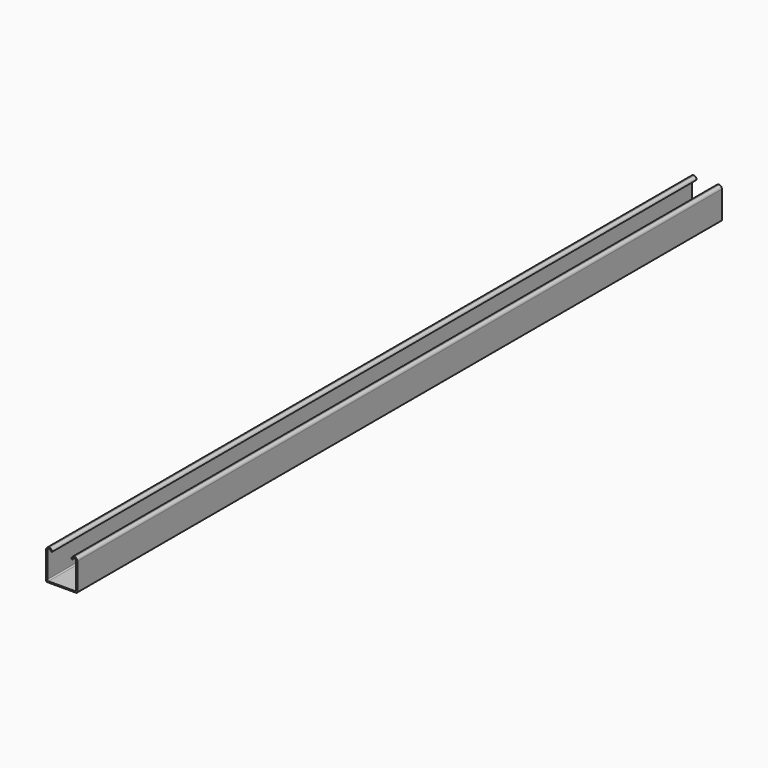
from build123d import *

# Parameters (mm, degrees)
F0_W     = 1.5875
F0_H     = 1.5875
F0_W_2   = 38.1
F1_DEPTH = 1066.8
F2_R     = 1.5875


with BuildPart() as f1:
    # F0 (on Front) → F1 (new body)
    with BuildSketch(Plane.XZ):
        with Locations((19.84375, -19.84375)):
            Rectangle(F0_W, F0_H)
        with Locations((0, -19.84375)):
            Rectangle(F0_W_2, F0_H)
        with BuildLine():
            Line((19.05, -19.05), (20.6375, -19.05))
            Line((20.6375, -19.05), (20.6375, 16.728964))
            ThreePointArc((20.6375, 16.728964), (19.70884, 19.280205), (17.357459, 20.6375))
            Line((17.357459, 20.6375), (15.980041, 20.6375))
            ThreePointArc((15.980041, 20.6375), (13.62866, 19.280205), (12.7, 16.728964))
            Line((12.7, 16.728964), (14.2875, 16.728964))
            ThreePointArc((14.2875, 16.728964), (16.66875, 19.110214), (19.05, 16.728964))
            Line((19.05, 16.728964), (19.05, -19.05))
        make_face()
        with Locations((-19.84375, -19.84375)):
            Rectangle(F0_W, F0_H)
        with BuildLine():
            Line((-20.6375, -19.05), (-19.05, -19.05))
            Line((-19.05, -19.05), (-19.05, 16.728964))
            ThreePointArc((-19.05, 16.728964), (-16.66875, 19.110214), (-14.2875, 16.728964))
            Line((-14.2875, 16.728964), (-12.7, 16.728964))
            ThreePointArc((-12.7, 16.728964), (-13.62866, 19.280205), (-15.980041, 20.6375))
            Line((-15.980041, 20.6375), (-17.357459, 20.6375))
            ThreePointArc((-17.357459, 20.6375), (-19.70884, 19.280205), (-20.6375, 16.728964))
            Line((-20.6375, 16.728964), (-20.6375, -19.05))
        make_face()
        with BuildLine():
            Line((15.980041, 20.6375), (17.357459, 20.6375))
            ThreePointArc((17.357459, 20.6375), (16.66875, 20.697714), (15.980041, 20.6375))
        make_face()
        with BuildLine():
            ThreePointArc((-15.980041, 20.6375), (-16.66875, 20.697714), (-17.357459, 20.6375))
            Line((-17.357459, 20.6375), (-15.980041, 20.6375))
        make_face()
    extrude(amount=F1_DEPTH)

    # F2
    f2_edges = [f1.edges().sort_by_distance(p)[0] for p in [
        (-19.05, -533.4, -19.05),
        (19.05, -533.4, -19.05),
        (20.6375, -533.4, -20.6375),
        (-20.6375, -533.4, -20.6375),
    ]]
    fillet(f2_edges, radius=F2_R)


solid = f1.part
